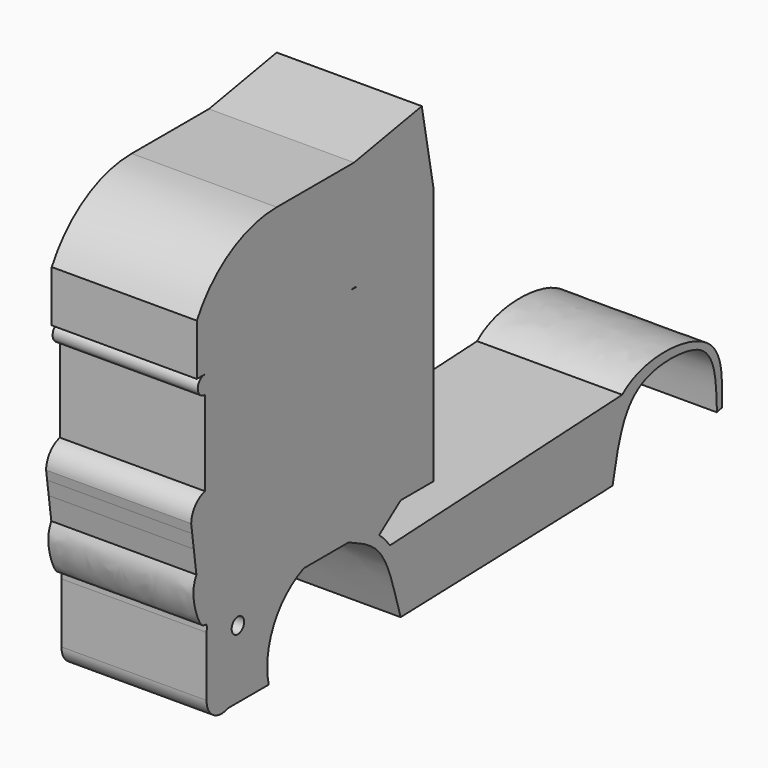
from build123d import *

# Parameters (mm, degrees)
F0_R     = 1.3413013151
F1_DEPTH = 25


with BuildPart() as f1:
    # F0 (on Right) → F1 (new body)
    with BuildSketch(Plane.YZ):
        with BuildLine():
            Line((-59.7156846646, -5.3227093567), (-59.375019744, -7.8075606143))
            Line((-59.375019744, -7.8075606143), (-55.9374617497, -7.8075606143))
            Line((-55.9374617497, -7.8075606143), (-33.3346764091, -5.6247393992))
            Line((-33.3346764091, -5.6247393992), (-33.3346764091, -2.3953433202))
            Line((-33.3346764091, -2.3953433202), (-33.3346764091, 2.3429190912))
            Line((-33.3346764091, 2.3429190912), (-33.3346764091, 17.7317894995))
            Line((-33.3346764091, 17.7317894995), (-56.9665580988, 17.7317894995))
            ThreePointArc((-56.9665580988, 17.7317894995), (-58.5253667086, 16.1729808897), (-56.9665580988, 14.6141722798))
            Line((-56.9665580988, 14.6141722798), (-56.9665580988, 0))
            ThreePointArc((-56.9665580988, 0), (-59.0775962213, -1.3520532806), (-59.937197715, -3.706966294))
            Line((-59.937197715, -3.706966294), (-59.7156846646, -5.3227093567))
        make_face()
        with BuildLine():
            Line((-58.7176652625, 17.7317894995), (-56.9665580988, 17.7317894995))
            Line((-56.9665580988, 17.7317894995), (-33.3346764091, 17.7317894995))
            Line((-33.3346764091, 17.7317894995), (-25.3467038274, 17.7317894995))
            ThreePointArc((-25.3467038274, 17.7317894995), (-24.8258609208, 17.8061958286), (-24.3050180143, 17.7317894995))
            Line((-24.3050180143, 17.7317894995), (-20.1933458447, 17.7317894995))
            add(Edge.make_bspline(
                [(-20.1933458447, 17.7317894995), (-20.1273708915, 21.1809682656), (-20.2524642573, 26.8966571713), (-23.6691484873, 28.1730388401), (-25.4466654733, 28.6230146885)],
                knots=[0, 0, 0, 0, 0.5753069191, 1, 1, 1, 1], degree=3))
            Line((-25.4466654733, 28.6230146885), (-25.4466654733, 36.7948412895))
            Line((-25.4466654733, 36.7948412895), (-41.4984645322, 36.7948412895))
            ThreePointArc((-41.4984645322, 36.7948412895), (-51.5089923737, 34.0490123941), (-58.7176652625, 26.5800580382))
            Line((-58.7176652625, 26.5800580382), (-58.7176652625, 17.7317894995))
        make_face()
        with BuildLine():
            Line((-33.3346764091, 17.7317894995), (-33.3346764091, 2.3429190912))
            Line((-33.3346764091, 2.3429190912), (-25.3467038274, 3.7005587947))
            ThreePointArc((-25.3467038274, 3.7005587947), (-23.6209226102, 5.0092447236), (-22.9657124728, 7.0736282505))
            Line((-22.9657124728, 7.0736282505), (-22.9657124728, 15.9460473806))
            ThreePointArc((-22.9657124728, 15.9460473806), (-23.3377417433, 17.0621358906), (-24.3050180143, 17.7317894995))
            Line((-24.3050180143, 17.7317894995), (-25.3467038274, 17.7317894995))
            Line((-25.3467038274, 17.7317894995), (-33.3346764091, 17.7317894995))
        make_face()
        with BuildLine():
            Line((-59.375019744, -7.8075606143), (-58.812841773, -11.9081549346))
            Line((-58.812841773, -11.9081549346), (-56.2285371125, -11.9081549346))
            Line((-56.2285371125, -11.9081549346), (-55.1892034709, -20.3746967018))
            Line((-55.1892034709, -20.3746967018), (-44.014878571, -19.8975186795))
            Line((-44.014878571, -19.8975186795), (-38.4535634784, -15.2970959109))
            Line((-38.4535634784, -15.2970959109), (-7.780038286, -14.0707446262))
            Line((-7.780038286, -14.0707446262), (-7.780038286, 26.0761603713))
            Line((-7.780038286, 26.0761603713), (-10.2704176679, 39.4214987755))
            Line((-10.2704176679, 39.4214987755), (-24.8629627749, 36.7948412895))
            Line((-24.8629627749, 36.7948412895), (-25.4466654733, 36.7948412895))
            Line((-25.4466654733, 36.7948412895), (-25.4466654733, 28.6230146885))
            add(Edge.make_bspline(
                [(-20.1933458447, 17.7317894995), (-20.1273708915, 21.1809682656), (-20.2524642573, 26.8966571713), (-23.6691484873, 28.1730388401), (-25.4466654733, 28.6230146885)],
                knots=[0, 0, 0, 0, 0.5753069191, 1, 1, 1, 1], degree=3))
            Line((-20.1933458447, 17.7317894995), (-24.3050180143, 17.7317894995))
            ThreePointArc((-24.3050180143, 17.7317894995), (-23.3377417433, 17.0621358906), (-22.9657124728, 15.9460473806))
            Line((-22.9657124728, 15.9460473806), (-22.9657124728, 7.0736282505))
            ThreePointArc((-22.9657124728, 7.0736282505), (-23.6209226102, 5.0092447236), (-25.3467038274, 3.7005587947))
            Line((-25.3467038274, 3.7005587947), (-33.3346764091, 2.3429190912))
            Line((-33.3346764091, 2.3429190912), (-33.3346764091, -2.3953433202))
            Line((-33.3346764091, -2.3953433202), (-33.3346764091, -5.6247393992))
            Line((-33.3346764091, -5.6247393992), (-55.9374617497, -7.8075606143))
            Line((-55.9374617497, -7.8075606143), (-59.375019744, -7.8075606143))
        make_face()
        with BuildLine():
            Line((-33.3346764091, -10.6459222734), (-33.3346764091, -6.5242550336))
            Line((-33.3346764091, -6.5242550336), (-30.7647838399, -6.5242550336))
            Line((-30.7647838399, -6.5242550336), (-18.2555336505, -5.3161978722))
            Line((-18.2555336505, -5.3161978722), (-18.2555336505, -12.643808499))
            Line((-18.2555336505, -12.643808499), (-30.8102872972, -13.1457572697))
            Line((-30.8102872972, -13.1457572697), (-33.3346764091, -13.2466843007))
            Line((-33.3346764091, -13.2466843007), (-43.0865399539, -13.6365713552))
            Line((-43.0865399539, -13.6365713552), (-44.5091923977, -13.0241444813))
            Line((-44.5091923977, -13.0241444813), (-40.7882420624, -7.8148144776))
            Line((-40.7882420624, -7.8148144776), (-36.5414358675, -6.4670089632))
            ThreePointArc((-36.5414358675, -6.4670089632), (-38.4535634784, -8.2143949485), (-39.346460253, -10.6459222734))
            Line((-39.346460253, -10.6459222734), (-33.3346764091, -10.6459222734))
        make_face(mode=Mode.SUBTRACT)
        Polygon((-18.2555336505, -5.3161978722), (-30.7647838399, -6.5242550336), (-31.4434171614, -6.5897927622), (-30.8102872972, -13.1457572697), (-18.2555336505, -12.643808499), align=None)
        with BuildLine():
            Line((-33.3346764091, -13.2466843007), (-33.3346764091, -10.6459222734))
            Line((-33.3346764091, -10.6459222734), (-39.346460253, -10.6459222734))
            ThreePointArc((-39.346460253, -10.6459222734), (-38.4535634784, -8.2143949485), (-36.5414358675, -6.4670089632))
            Line((-36.5414358675, -6.4670089632), (-40.7882420624, -7.8148144776))
            Line((-40.7882420624, -7.8148144776), (-44.5091923977, -13.0241444813))
            Line((-44.5091923977, -13.0241444813), (-43.0865399539, -13.6365713552))
            Line((-43.0865399539, -13.6365713552), (-33.3346764091, -13.2466843007))
        make_face()
        Polygon((-30.7647838399, -6.5242550336), (-33.3346764091, -6.5242550336), (-33.3346764091, -10.6459222734), (-33.3346764091, -13.2466843007), (-30.8102872972, -13.1457572697), (-31.4434171614, -6.5897927622), align=None)
        with BuildLine():
            add(Edge.make_bspline(
                [(-58.812841773, -11.9081549346), (-59.0880915502, -12.5121118478), (-59.7415991693, -13.9438196544), (-59.0499376213, -17.7493049639), (-57.6436367472, -20.4556878145), (-56.8074801086, -20.2422530768), (-56.6742494702, -20.3746967018)],
                knots=[0, 0, 0, 0, 0.2060210321, 0.4886513543, 0.7243907608, 0.8444142223, 0.8444142223, 0.8444142223, 0.8444142223], degree=3))
            Line((-56.6742494702, -20.3746967018), (-55.1892034709, -20.3746967018))
            Line((-55.1892034709, -20.3746967018), (-56.2285371125, -11.9081549346))
            Line((-56.2285371125, -11.9081549346), (-58.812841773, -11.9081549346))
        make_face()
        with BuildLine():
            Line((-52.1095097065, -34.9311500469), (-43.2436168194, -34.9311500469))
            ThreePointArc((-43.2436168194, -34.9311500469), (-43.5297296599, -32.904680643), (-43.4886334872, -30.8585257352))
            ThreePointArc((-43.4886334872, -30.8585257352), (-43.4937767675, -30.8193585401), (-43.4987837121, -30.7801736833))
            ThreePointArc((-43.4987837121, -30.7801736833), (-41.8021007863, -23.2493696081), (-35.6815308332, -18.5450772681))
            Line((-35.6815308332, -18.5450772681), (-26.0333530605, -18.5450772681))
            ThreePointArc((-26.0333530605, -18.5450772681), (-22.5385309182, -19.8240557823), (-19.4525133934, -21.9039749354))
            Line((-19.4525133934, -21.9039749354), (-14.8206017911, -18.5140725225))
            Line((-14.8206017911, -18.5140725225), (-7.780038286, -18.5140725225))
            Line((-7.780038286, -18.5140725225), (-7.780038286, -14.0707446262))
            Line((-7.780038286, -14.0707446262), (-38.4535634784, -15.2970959109))
            Line((-38.4535634784, -15.2970959109), (-44.014878571, -19.8975186795))
            Line((-44.014878571, -19.8975186795), (-55.1892034709, -20.3746967018))
            Line((-55.1892034709, -20.3746967018), (-56.6742494702, -20.3746967018))
            add(Edge.make_bspline(
                [(-56.6742494702, -20.3746967018), (-56.5015432992, -20.5463826715), (-56.5789833997, -21.061622237), (-56.6074683325, -21.5753372759)],
                knots=[0.8444142223, 0.8444142223, 0.8444142223, 0.8444142223, 1, 1, 1, 1], degree=3))
            Line((-56.6074683325, -21.5753372759), (-56.6074683325, -31.8935360586))
            ThreePointArc((-56.6074683325, -31.8935360586), (-55.2022069666, -34.6616816563), (-52.1095097065, -34.9311500469))
        make_face()
        Polygon((-44.1664493774, -27.5487947282), (-43.4987837121, -30.7801736833), (-53.4819326623, -30.7801736833), (-53.8981630598, -27.5487947282), align=None, mode=Mode.SUBTRACT)
        with Locations((-49.8796105385, -23.2399087399)):
            Circle(F0_R, mode=Mode.SUBTRACT)
        with BuildLine():
            ThreePointArc((-43.4987837121, -30.7801736833), (-43.4937767675, -30.8193585401), (-43.4886334872, -30.8585257352))
            ThreePointArc((-43.4886334872, -30.8585257352), (-41.0356858712, -24.5223526476), (-35.6815308332, -20.3394033015))
            Line((-35.6815308332, -20.3394033015), (-26.0333530605, -20.3394033015))
            add(Edge.make_bspline(
                [(-26.0333530605, -20.3394033015), (-23.5843678368, -21.417930462), (-18.6388446996, -23.5959268726), (-16.1289011783, -31.861291049), (-15.2128944865, -34.9311500469), (-14.8206017911, -36.2458601594)],
                knots=[0, 0, 0, 0, 0.3593217541, 0.7256205678, 1, 1, 1, 1], degree=3))
            Line((-14.8206017911, -36.2458601594), (29.0052741766, -34.9311500469))
            add(Edge.make_bspline(
                [(29.0052741766, -34.9311500469), (28.9461622845, -34.6352556147), (29.0665782696, -33.4379145503), (29.1845194302, -25.1447405222), (32.8987687826, -21.9039749354)],
                knots=[0, 0, 0, 0, 0.0823028073, 0.3344678299, 0.3344678299, 0.3344678299, 0.3344678299], degree=3))
            Line((32.8987687826, -21.9039749354), (-17.1318468102, -24.4185392752))
            ThreePointArc((-17.1318468102, -24.4185392752), (-18.2221301436, -23.0966086911), (-19.4525133934, -21.9039749354))
            ThreePointArc((-19.4525133934, -21.9039749354), (-22.5385309182, -19.8240557823), (-26.0333530605, -18.5450772681))
            Line((-26.0333530605, -18.5450772681), (-35.6815308332, -18.5450772681))
            ThreePointArc((-35.6815308332, -18.5450772681), (-41.8021007863, -23.2493696081), (-43.4987837121, -30.7801736833))
        make_face()
        Polygon((-14.6168977418, -32.0090957925), (-14.6168977418, -29.7341951177), (-7.694104896, -29.5795624227), (26.7578526936, -28.8100176498), (25.0516771875, -32.0090957925), (-7.6398370158, -32.0090957925), align=None, mode=Mode.SUBTRACT)
        with BuildLine():
            add(Edge.make_bspline(
                [(29.0052741766, -34.9311500469), (28.9461622845, -34.6352556147), (29.0665782696, -33.4379145503), (29.1845194302, -25.1447405222), (32.8987687826, -21.9039749354)],
                knots=[0, 0, 0, 0, 0.0823028073, 0.3344678299, 0.3344678299, 0.3344678299, 0.3344678299], degree=3))
            Line((29.0052741766, -34.9311500469), (30.8140702546, -34.8309762776))
            add(Edge.make_bspline(
                [(30.8140702546, -34.8309762776), (31.5238965397, -31.3843514826), (32.8214249796, -25.0840864926), (38.3461393666, -20.2689368616), (48.8557950193, -20.6420321643), (52.0607659291, -23.863051692), (53.1163012832, -27.6248494452), (53.2346086426, -31.0166279818), (53.2992146909, -32.8688323498)],
                knots=[0, 0, 0, 0, 0.2073679163, 0.3790586156, 0.5860214277, 0.7202942231, 0.8472564596, 1, 1, 1, 1], degree=3))
            Line((53.2992146909, -32.8688323498), (54.3659590185, -32.5797982514))
            add(Edge.make_bspline(
                [(32.8987687826, -21.9039749354), (37.4717875773, -17.9139138137), (54.3744629803, -18.879708399), (54.3643162474, -29.5304261791), (54.3666904277, -32.2579057298), (54.3659590185, -32.5797982514)],
                knots=[0.3344678299, 0.3344678299, 0.3344678299, 0.3344678299, 0.6449357814, 0.85566776, 0.9713709584, 0.9713709584, 0.9713709584, 0.9713709584], degree=3))
        make_face()
        Polygon((26.7578526936, -28.8100176498), (-7.694104896, -29.5795624227), (-7.6398370158, -32.0090957925), (25.0516771875, -32.0090957925), align=None)
        Polygon((-53.4819326623, -30.7801736833), (-43.4987837121, -30.7801736833), (-44.1664493774, -27.5487947282), (-53.8981630598, -27.5487947282), align=None)
        Polygon((-7.694104896, -29.5795624227), (-14.6168977418, -29.7341951177), (-14.6168977418, -32.0090957925), (-7.6398370158, -32.0090957925), align=None)
    extrude(amount=F1_DEPTH)


solid = f1.part
